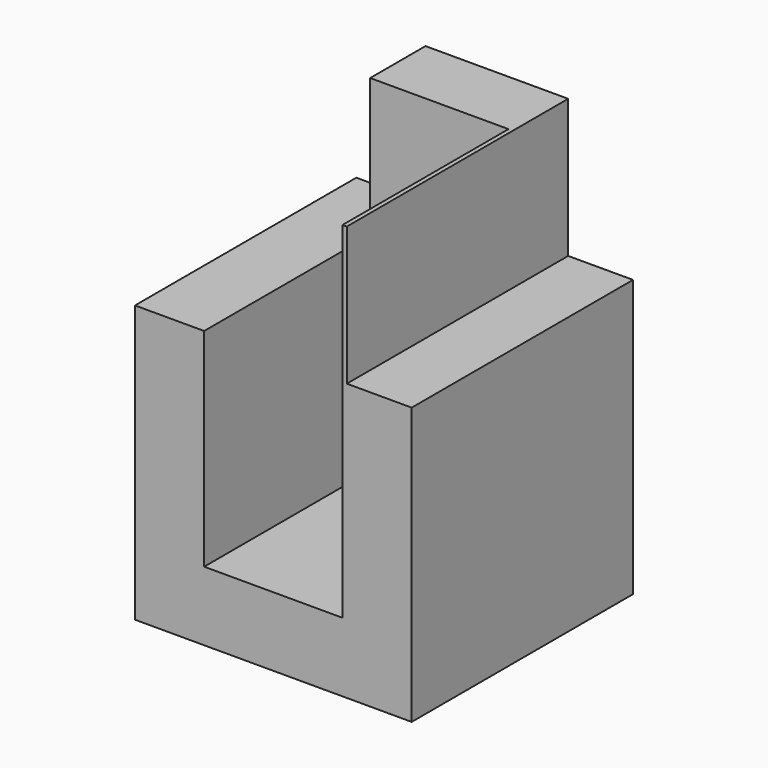
from build123d import *

# Parameters (mm, degrees)
F0_W     = 50.8
F0_H     = 76.2
F1_DEPTH = 50.8
F2_T     = -12.7
F3_W     = 12.7
F3_H     = 25.4
F4_DEPTH = 79.708762


with BuildPart() as f1:
    # F0 (on Front) → F1 (new body)
    with BuildSketch(Plane.XZ):
        with Locations((25.4, -38.1)):
            Rectangle(F0_W, F0_H)
    extrude(amount=F1_DEPTH)

    # F2
    f2_openings = [f1.faces().sort_by_distance(p)[0] for p in [
        (25.4, -50.8, -38.1),
        (25.4, -25.4, 0),
    ]]
    offset(amount=F2_T, openings=f2_openings)

    # F3 (on Front) → F4 (cut)
    with BuildSketch(Plane.XZ):
        with Locations((6.35, -12.7)):
            Rectangle(F3_W, F3_H)
        with Locations((45.243796, -12.7)):
            Rectangle(F3_W, F3_H)
    extrude(amount=F4_DEPTH, mode=Mode.SUBTRACT)


solid = f1.part
